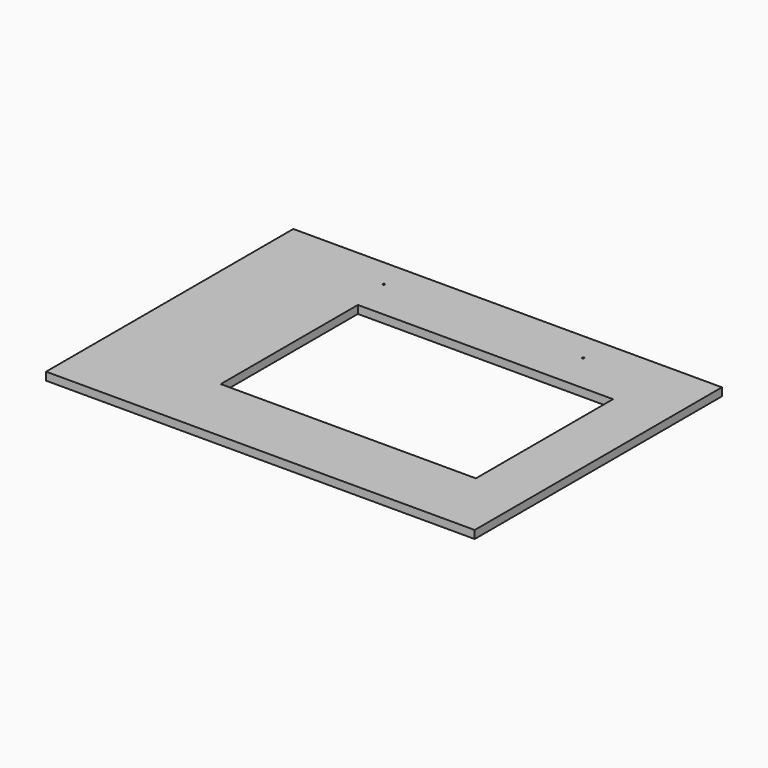
from build123d import *

# Parameters (mm, degrees)
F0_W     = 215
F0_H     = 155
F1_DEPTH = 4
F2_R     = 0.5
F2_W     = 128
F2_H     = 86
F3_DEPTH = 4.001


with BuildPart() as f1:
    # F0 (on Top) → F1 (new body)
    with BuildSketch(Plane.XY):
        Rectangle(F0_W, F0_H)
    extrude(amount=F1_DEPTH)

    # F2 (on face) → F3 (cut, through all)
    with BuildSketch(Plane.XY.offset(4)):
        with Locations((-50.5, 63)):
            Circle(F2_R)
        with Locations((49.5, 63)):
            Circle(F2_R)
        with Locations((16.5, 0)):
            Rectangle(F2_W, F2_H)
    extrude(amount=-F3_DEPTH, mode=Mode.SUBTRACT)


solid = f1.part
